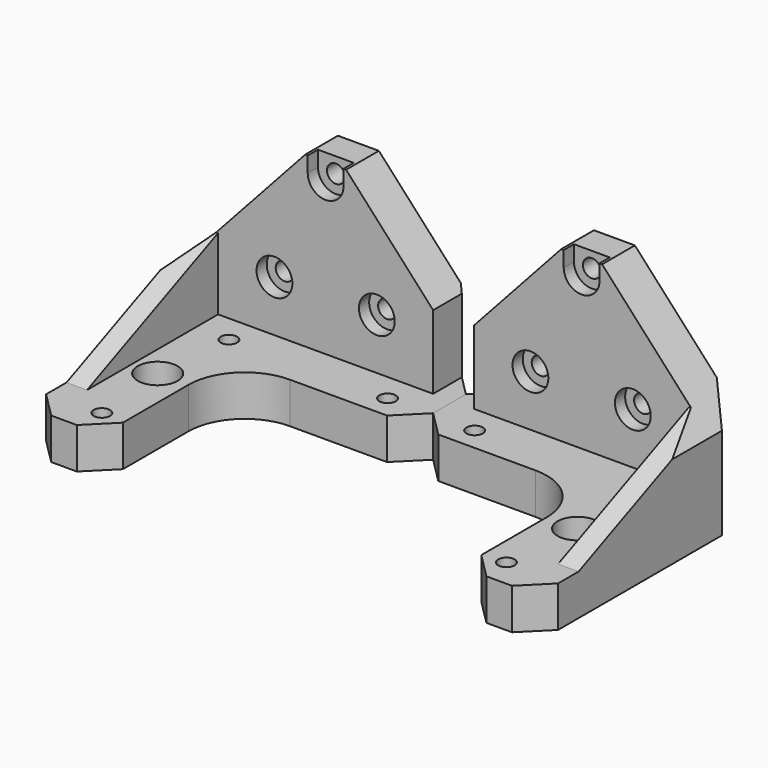
from build123d import *

# Parameters (mm, degrees)
F0_R      = 3
F0_R_2    = 3.9
F0_W      = 50
F0_H      = 8
F0_R_3    = 1.6
F1_DEPTH  = 8
F2_DEPTH  = 41
F5_DEPTH  = 4
F3_R      = 1.75
F6_DEPTH  = 25
F7_R      = 3.5
F7_R_2    = 1.75
F8_DEPTH  = 2.5
F9_DEPTH  = 25
F10_SIZE  = 5
F11_DEPTH = 2


with BuildPart() as f1:
    # F0 (on Top) → F1 (new body)
    with BuildSketch(Plane.XY):
        with BuildLine():
            Line((0, -18), (0, -8))
            Line((0, -8), (-50, -8))
            Line((-50, -8), (-50, -50))
            Line((-50, -50), (-35, -50))
            Line((-35, -50), (-35, -29))
            ThreePointArc((-35, -29), (-31.7781745931, -21.2218254069), (-24, -18))
            Line((-24, -18), (0, -18))
        make_face()
        with Locations((-39.5, -44.5)):
            Circle(F0_R, mode=Mode.SUBTRACT)
        with Locations((-41, -29)):
            Circle(F0_R_2, mode=Mode.SUBTRACT)
        with Locations((-39.5, -13.5)):
            Circle(F0_R, mode=Mode.SUBTRACT)
        with Locations((-8.5, -13.5)):
            Circle(F0_R, mode=Mode.SUBTRACT)
        with Locations((-25, -4)):
            Rectangle(F0_W, F0_H)
        with Locations((-39.5, -44.5)):
            Circle(F0_R)
        with Locations((-39.5, -44.5)):
            Circle(F0_R_3, mode=Mode.SUBTRACT)
        with Locations((-8.5, -13.5)):
            Circle(F0_R)
        with Locations((-8.5, -13.5)):
            Circle(F0_R_3, mode=Mode.SUBTRACT)
        with Locations((-39.5, -13.5)):
            Circle(F0_R)
        with Locations((-39.5, -13.5)):
            Circle(F0_R_3, mode=Mode.SUBTRACT)
    extrude(amount=F1_DEPTH)

    # F0 (on Top) → F2 (join)
    with BuildSketch(Plane.XY):
        with Locations((-25, -4)):
            Rectangle(F0_W, F0_H)
    extrude(amount=F2_DEPTH)

    # F4 (on face) → F5 (join)
    with BuildSketch(Plane(origin=(-50, 0, 0), x_dir=(0, -1, 0), z_dir=(-1, 0, 0))):
        Polygon((40, 0), (40, 8), (8, 22), (0, 22), (0, 0), align=None)
    extrude(amount=-F5_DEPTH)

    # F3 (on face) → F6 (cut)
    with BuildSketch(Plane(origin=(0, 0, 0), x_dir=(-1, 0, 0), z_dir=(0, 1, 0))):
        Polygon((0, 18), (21, 41), (0, 41), align=None)
        Polygon((50, 41), (29, 41), (50, 18), align=None)
        with Locations((25, 38)):
            Circle(F3_R)
        with Locations((35, 18)):
            Circle(F3_R)
        with Locations((15, 18)):
            Circle(F3_R)
    extrude(amount=-F6_DEPTH, mode=Mode.SUBTRACT)

    # F7 (on face) → F8 (cut)
    with BuildSketch(Plane.XZ.offset(8)):
        with Locations((-35, 18)):
            Circle(F7_R)
        with Locations((-35, 18)):
            Circle(F7_R_2, mode=Mode.SUBTRACT)
        with BuildLine():
            Line((-28.5, 41), (-28.5, 38))
            ThreePointArc((-28.5, 38), (-25, 34.5), (-21.5, 38))
            Line((-21.5, 38), (-21.5, 41))
            Line((-21.5, 41), (-28.5, 41))
        make_face()
        with Locations((-25, 38)):
            Circle(F7_R_2, mode=Mode.SUBTRACT)
        with Locations((-15, 18)):
            Circle(F7_R)
        with Locations((-15, 18)):
            Circle(F7_R_2, mode=Mode.SUBTRACT)
    extrude(amount=-F8_DEPTH, mode=Mode.SUBTRACT)

    # F7 (on face) → F9 (cut)
    with BuildSketch(Plane.XZ.offset(8)):
        Polygon((0, 18), (-4, 22.380952381), (-4, 8), (0, 8), align=None)
    extrude(amount=-F9_DEPTH, mode=Mode.SUBTRACT)

    # F10
    f10_edges = [f1.edges().sort_by_distance(p)[0] for p in [
        (0, -18, 4),
        (0, 0, 4),
        (-35, -50, 4),
        (-50, -50, 4),
        (-50, 0, 9),
    ]]
    chamfer(f10_edges, length=F10_SIZE)

    # F0 (on Top) → F11 (cut)
    with BuildSketch(Plane.XY):
        with Locations((-39.5, -44.5)):
            Circle(F0_R)
        with Locations((-39.5, -44.5)):
            Circle(F0_R_3, mode=Mode.SUBTRACT)
        with Locations((-8.5, -13.5)):
            Circle(F0_R)
        with Locations((-8.5, -13.5)):
            Circle(F0_R_3, mode=Mode.SUBTRACT)
        with Locations((-39.5, -13.5)):
            Circle(F0_R)
        with Locations((-39.5, -13.5)):
            Circle(F0_R_3, mode=Mode.SUBTRACT)
    extrude(amount=F11_DEPTH, mode=Mode.SUBTRACT)


with BuildPart() as f12_1:
    # F12: instance of F1
    add(f1.part.mirror(Plane(origin=(0, -9, 4), x_dir=(0, 1, 0), z_dir=(1, 0, 0))))


solid = Compound([f1.part, f12_1.part])
